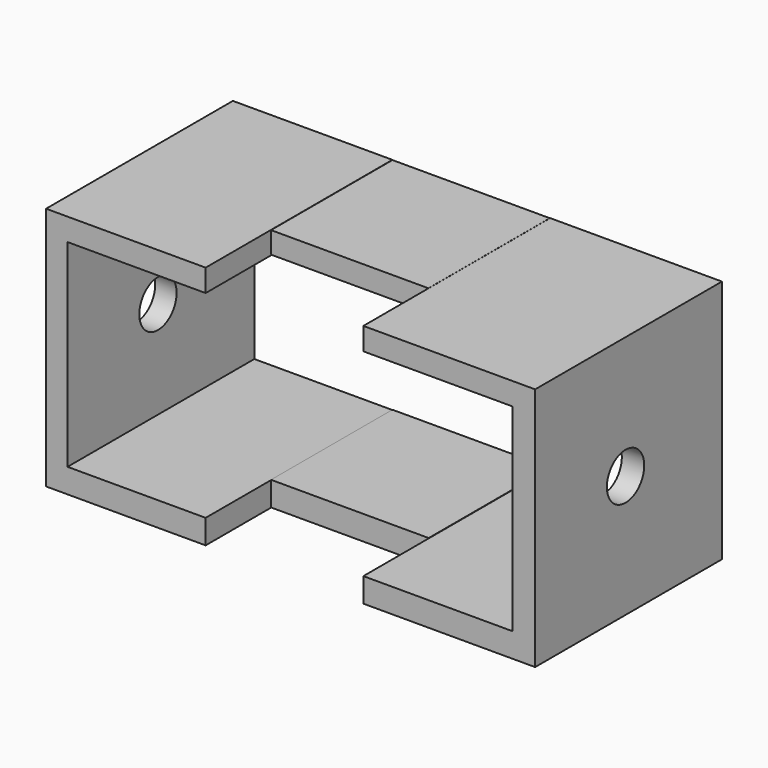
from build123d import *

# Parameters (mm, degrees)
F1_DEPTH = 50.8
F2_W     = 34.310213
F2_H     = 5.299702
F2_W_2   = 34.250349
F2_H_2   = 4.696828
F3_DEPTH = 33.02
F5_D     = 10.16


with BuildPart() as f1:
    # F0 (on Front) → F1 (new body)
    with BuildSketch(Plane.XZ):
        Polygon((-29.758517, 29.140698), (-64.475067, 29.140698), (-64.475067, -24.063922), (-29.758517, -24.063922), (-29.758517, -18.784074), (-59.804428, -18.784074), (-59.804428, 24.266992), (-29.758517, 24.266992), align=None)
        Polygon((41.934177, -24.063922), (41.934177, 29.140698), (4.560493, 29.140698), (4.560493, 24.266992), (37.060469, 24.266992), (37.060469, -18.784074), (4.560493, -18.784074), (4.560493, -24.063922), align=None)
    extrude(amount=F1_DEPTH)

    # F2 (on Front) → F3 (join)
    with BuildSketch(Plane.XZ):
        with Locations((-12.605155, -21.372894)):
            Rectangle(F2_W, F2_H)
        with Locations((-12.635087, 26.751194)):
            Rectangle(F2_W_2, F2_H_2)
    extrude(amount=F3_DEPTH)

    # F5 (through all)
    with Locations(Plane(origin=(-64.475067, 0, 0), x_dir=(0, -1, 0), z_dir=(-1, 0, 0))):
        with Locations((26.209798, 2.497482)):
            Hole(F5_D / 2)


solid = f1.part
